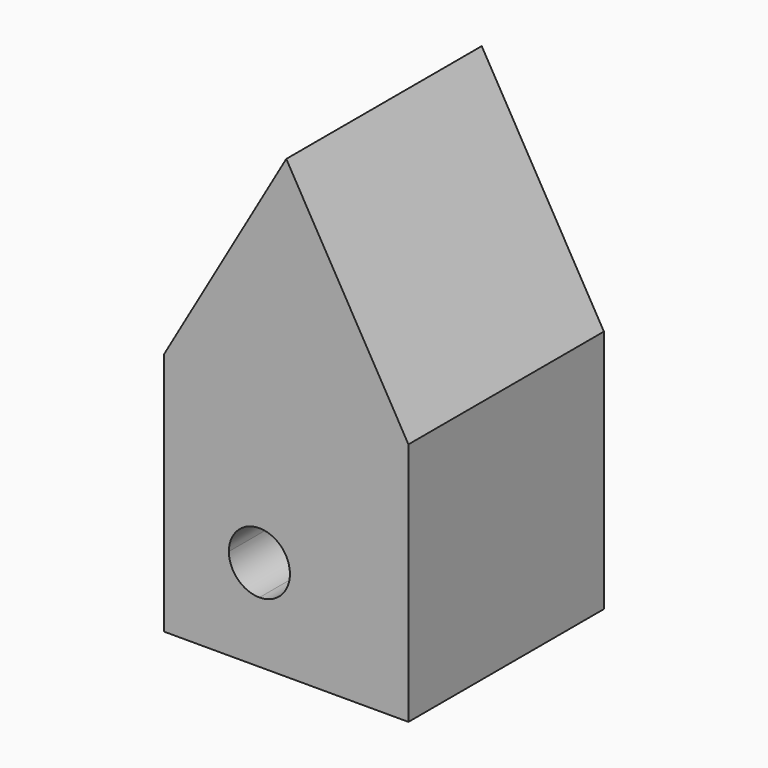
from build123d import *

# Parameters (mm, degrees)
F1_DEPTH = 50.8


with BuildPart() as f1:
    # F0 (on Front) → F1 (new body)
    with BuildSketch(Plane.XZ):
        Polygon((-25.318826, 23.107516), (-25.318826, -27.692484), (-5.506827, -27.692484), (25.481174, -27.692484), (25.481174, 23.107516), (0.081174, 67.101606), align=None)
        with BuildLine():
            ThreePointArc((0.843173, -8.642484), (-1.016699, -13.132612), (-5.506827, -14.992484))
            ThreePointArc((-5.506827, -14.992484), (-9.996955, -13.132612), (-11.856827, -8.642484))
            ThreePointArc((-11.856827, -8.642484), (-5.506827, -2.292484), (0.843173, -8.642484))
        make_face(mode=Mode.SUBTRACT)
    extrude(amount=F1_DEPTH)


solid = f1.part
